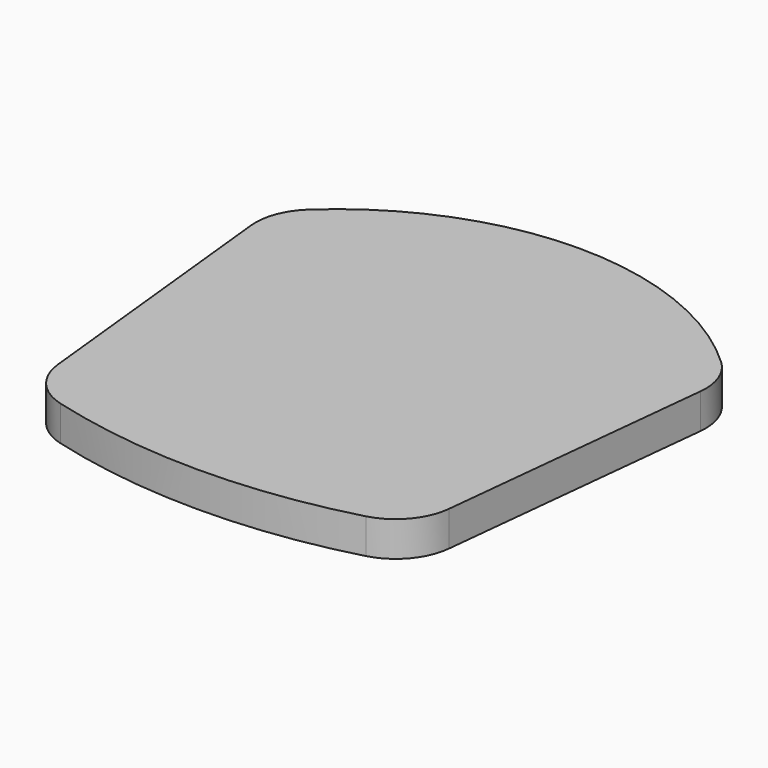
from build123d import *

# Parameters (mm, degrees)
F1_DEPTH = 3


with BuildPart() as f1:
    # F0 (on Top) → F1 (new body)
    with BuildSketch(Plane.XY):
        with BuildLine():
            Line((-19.255597, 27.103531), (-16.751407, 3.277753))
            ThreePointArc((-16.751407, 3.277753), (-15.585753, 0.558932), (-13.087552, -1.025282))
            ThreePointArc((-13.087552, -1.025282), (0, -2.76851), (13.087552, -1.025282))
            ThreePointArc((13.087552, -1.025282), (15.585753, 0.558932), (16.751407, 3.277753))
            Line((16.751407, 3.277753), (19.255597, 27.103531))
            ThreePointArc((19.255597, 27.103531), (18.964125, 29.383144), (17.683698, 31.291574))
            ThreePointArc((17.683698, 31.291574), (0, 38.23149), (-17.683698, 31.291574))
            ThreePointArc((-17.683698, 31.291574), (-18.964125, 29.383144), (-19.255597, 27.103531))
        make_face()
    extrude(amount=F1_DEPTH)


solid = f1.part
